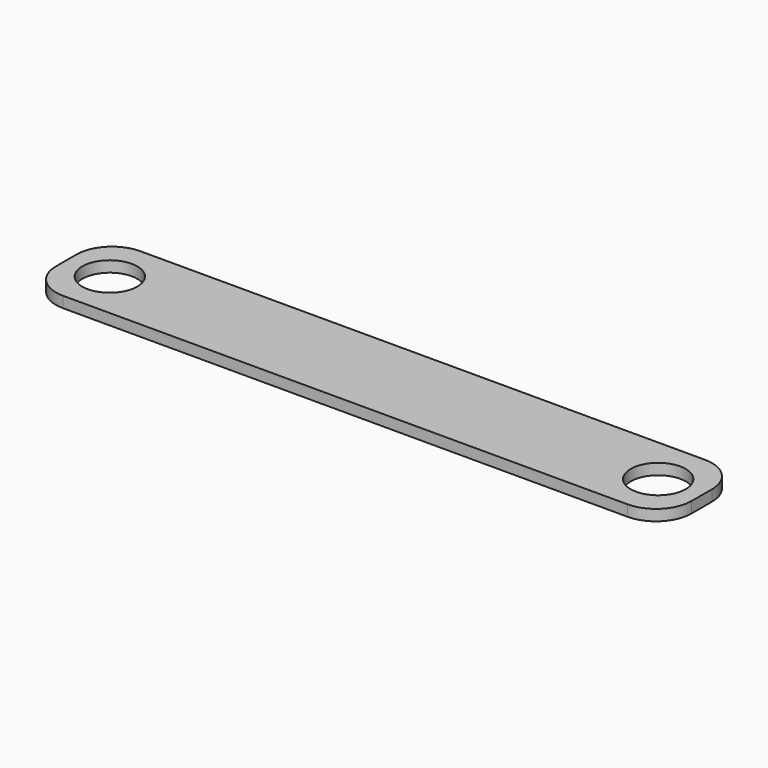
from build123d import *

# Parameters (mm, degrees)
F1_DEPTH      = 0.381
F1_DEPTH_BACK = 0.381
F2_R          = 1.908991
F3_DEPTH      = 1.27
F3_DEPTH_BACK = 0.6858
F4_DEPTH      = 0.9398
F4_DEPTH_BACK = 1.8034


with BuildPart() as f1:
    # F0 (on Top) → F1 (new body, two sides)
    with BuildSketch(Plane.XY) as f1_sk:
        with BuildLine():
            Line((19.605453, 3.353871), (-19.605453, 3.353871))
            ThreePointArc((-19.605453, 3.353871), (-21.346986, 2.632504), (-22.068353, 0.89097))
            Line((-22.068353, 0.89097), (-22.068353, -0.89097))
            ThreePointArc((-22.068353, -0.89097), (-21.346986, -2.632504), (-19.605453, -3.353871))
            Line((-19.605453, -3.353871), (19.605453, -3.353871))
            ThreePointArc((19.605453, -3.353871), (21.346986, -2.632504), (22.068353, -0.89097))
            Line((22.068353, -0.89097), (22.068353, 0.89097))
            ThreePointArc((22.068353, 0.89097), (21.346986, 2.632504), (19.605453, 3.353871))
        make_face()
    extrude(amount=F1_DEPTH)
    extrude(f1_sk.sketch, amount=-F1_DEPTH_BACK)

    # F2 (on face) → F3 (cut, two sides)
    with BuildSketch(Plane.XY.offset(0.381)) as f3_sk:
        with Locations((-19.042145, 0)):
            Circle(F2_R)
    extrude(amount=-F3_DEPTH, mode=Mode.SUBTRACT)
    extrude(f3_sk.sketch, amount=-F3_DEPTH_BACK, mode=Mode.SUBTRACT)

    # F2 (on face) → F4 (cut, two sides)
    with BuildSketch(Plane.XY.offset(0.381)) as f4_sk:
        with Locations((19.042145, 0)):
            Circle(F2_R)
    extrude(amount=F4_DEPTH, mode=Mode.SUBTRACT)
    extrude(f4_sk.sketch, amount=-F4_DEPTH_BACK, mode=Mode.SUBTRACT)


solid = f1.part
